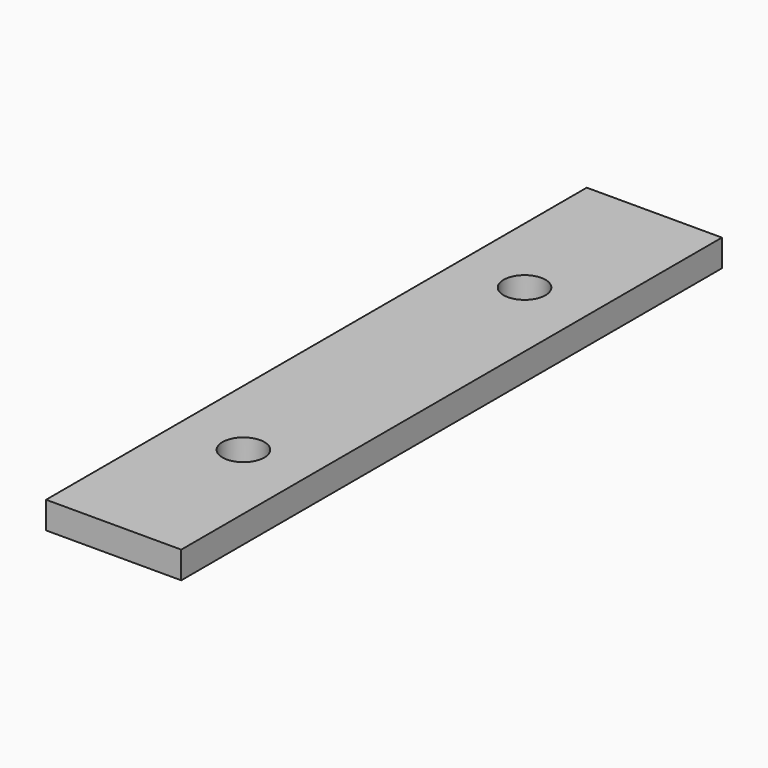
from build123d import *

# Parameters (mm, degrees)
CYLINDER005_R     = 1.55
CYLINDER005_DEPTH = 10
CYLINDER004_R     = 1.55
CYLINDER004_DEPTH = 10
BOX002_W          = 10
BOX002_H          = 50
BOX002_DEPTH      = 2


with BuildPart() as cylinder005:
    # Cylinder005 → Cylinder005 (new body)
    with BuildSketch(Plane(origin=(-5, 38, 14), x_dir=(1, 0, 0), z_dir=(0, 0, 1))):
        Circle(CYLINDER005_R)
    extrude(amount=CYLINDER005_DEPTH)


with BuildPart() as cylinder004:
    # Cylinder004 → Cylinder004 (new body)
    with BuildSketch(Plane(origin=(-5, 12, 14), x_dir=(1, 0, 0), z_dir=(0, 0, 1))):
        Circle(CYLINDER004_R)
    extrude(amount=CYLINDER004_DEPTH)


with BuildPart() as lip012:
    # Box002 → Box002 (new body)
    with BuildSketch(Plane(origin=(-10, 0, 18), x_dir=(1, 0, 0), z_dir=(0, 0, 1))):
        with Locations((5, 25)):
            Rectangle(BOX002_W, BOX002_H)
    extrude(amount=BOX002_DEPTH)

    # Cut004: cut Cylinder004
    add(cylinder004.part, mode=Mode.SUBTRACT)

    # Cut005: cut Cylinder005
    add(cylinder005.part, mode=Mode.SUBTRACT)


solid = lip012.part
